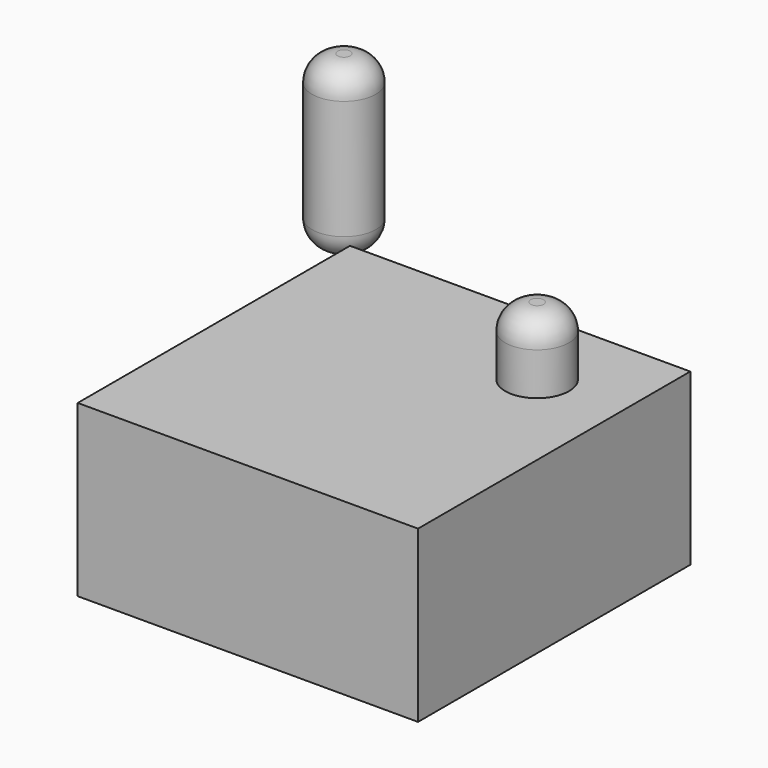
from build123d import *

# Parameters (mm, degrees)
F0_W     = 50.8
F0_H     = 50.8
F1_DEPTH = 25.4
F2_R     = 4.7625
F3_DEPTH = 10.16
F4_R     = 3.81
F5_R     = 4.826
F6_DEPTH = 10.16
F7_R     = 3.81
F8_R     = 4.7625
F9_DEPTH = 25.4
F10_R    = 3.81


with BuildPart() as f1:
    # F0 (on Top) → F1 (new body)
    with BuildSketch(Plane.XY):
        Rectangle(F0_W, F0_H)
    extrude(amount=F1_DEPTH)

    # F2 (on face) → F3 (join)
    with BuildSketch(Plane.XY.offset(25.4)):
        with Locations((12.7, 12.7)):
            Circle(F2_R)
    extrude(amount=F3_DEPTH)

    # F4
    f4_edges = [f1.edges().sort_by_distance(p)[0] for p in [
        (7.9375, 12.7, 35.56),
    ]]
    fillet(f4_edges, radius=F4_R)

    # F5 (on face) → F6 (cut)
    with BuildSketch(Plane(origin=(0, 0, 0), x_dir=(1, 0, 0), z_dir=(0, 0, -1))):
        with Locations((-12.7, 12.7)):
            Circle(F5_R)
    extrude(amount=-F6_DEPTH, mode=Mode.SUBTRACT)

    # F7
    f7_edges = [f1.edges().sort_by_distance(p)[0] for p in [
        (-17.526, -12.7, 10.16),
    ]]
    fillet(f7_edges, radius=F7_R)


with BuildPart() as f9:
    # F8 (on Top) → F9 (new body)
    with BuildSketch(Plane.XY):
        with Locations((-56.266706, 62.85923)):
            Circle(F8_R)
    extrude(amount=F9_DEPTH)

    # F10
    f10_edges = [f9.edges().sort_by_distance(p)[0] for p in [
        (-61.029206, 62.85923, 25.4),
        (-61.029206, 62.85923, 0),
    ]]
    fillet(f10_edges, radius=F10_R)


solid = Compound([f1.part, f9.part])
